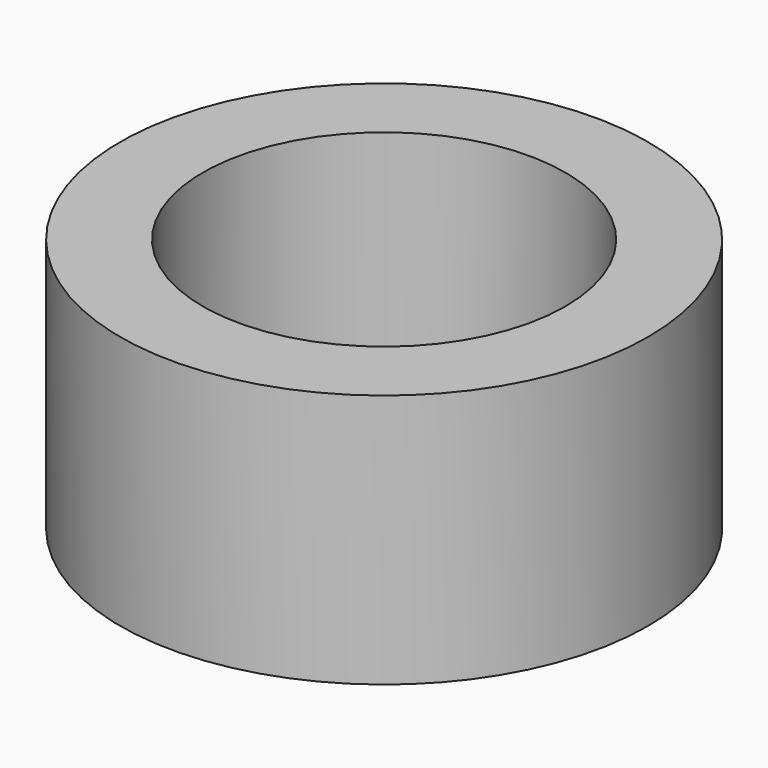
from build123d import *

# Parameters (mm, degrees)
CYLINDER_R        = 28.5
CYLINDER_DEPTH    = 40
CYLINDER001_R     = 41.5
CYLINDER001_DEPTH = 40


with BuildPart() as cylinder:
    # Cylinder → Cylinder (new body)
    with BuildSketch(Plane.XY):
        Circle(CYLINDER_R)
    extrude(amount=CYLINDER_DEPTH)


with BuildPart() as ring:
    # Cylinder001 → Cylinder001 (new body)
    with BuildSketch(Plane.XY):
        Circle(CYLINDER001_R)
    extrude(amount=CYLINDER001_DEPTH)

    # Cut: cut Cylinder
    add(cylinder.part, mode=Mode.SUBTRACT)


solid = ring.part
